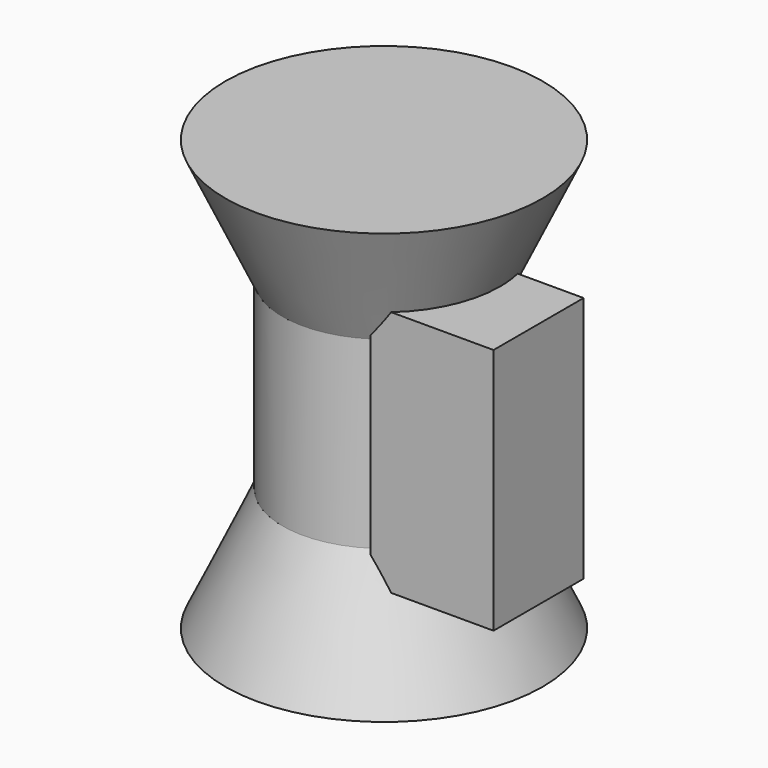
from build123d import *

# Parameters (mm, degrees)
SKETCH001_W  = 1
SKETCH001_H  = 7.5
PAD_DEPTH    = 20
SKETCH002_W  = 6
SKETCH002_H  = 12.06981
PAD001_DEPTH = 5.5


with BuildPart() as part:
    # Sketch → Revolution (revolve)
    with BuildSketch(Plane.XZ):
        Polygon((0, 0), (7.75, 0), (4.952154, 6), (4.952154, 15), (7.75, 21), (0, 21), align=None)
    revolve(axis=Axis((0, 0, 0), (0, 0, 1)))

    # Sketch001 → Pad (new body)
    with BuildSketch(Plane(origin=(0, 0, 21), x_dir=(-1, 0, 0), z_dir=(0, 0, 1))):
        with Locations((-3.25, 0.5)):
            Rectangle(SKETCH001_W, SKETCH001_H)
    extrude(amount=-PAD_DEPTH)

    # Sketch002 → Pad001 (new body)
    with BuildSketch(Plane.XZ.offset(4.25)):
        with Locations((5.75, 10.5)):
            Rectangle(SKETCH002_W, SKETCH002_H)
    extrude(amount=-PAD001_DEPTH)


solid = part.part
